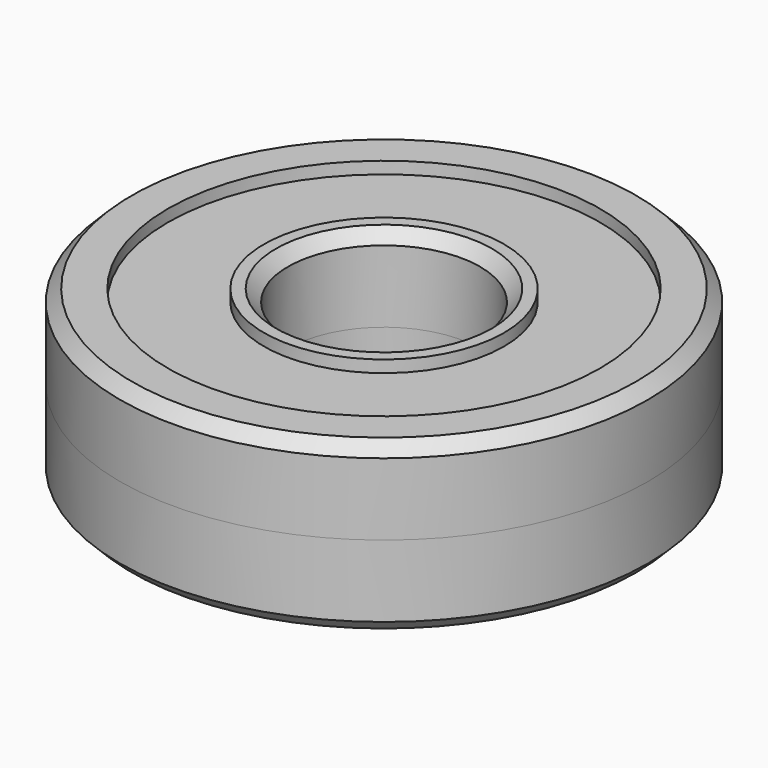
from build123d import *

# Parameters (mm, degrees)
F3_SIZE = 0.5


with BuildPart() as f1:
    # F0 (on Front) → F1 (revolve)
    with BuildSketch(Plane.XZ):
        Polygon((5, 3.5), (4, 3.5), (4, 0), (11, 0), (11, 3.5), (9, 3.5), (9, 3), (5, 3), align=None)
    revolve(axis=Axis((0, 0, 3.124244744), (0, 0, 1)))

    # F2: F1 across plane


with BuildPart() as f1_1:
    add(f1.part)
    add(f1.part.mirror(Plane.XY))

    # F3
    f3_edges = [f1_1.edges().sort_by_distance(p)[0] for p in [
        (-11, 0, 3.5),
        (-11, 0, -3.5),
        (-4, 0, 3.5),
        (-4, 0, -3.5),
    ]]
    chamfer(f3_edges, length=F3_SIZE)


solid = f1_1.part
